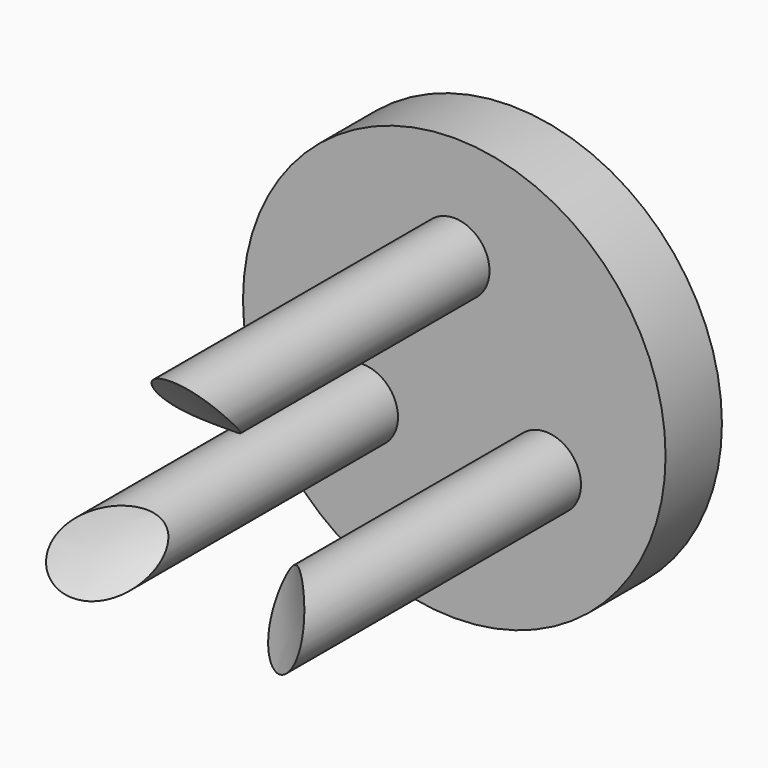
from build123d import *

# Parameters (mm, degrees)
F0_R     = 15
F1_DEPTH = 5
F2_R     = 2.5
F3_DEPTH = 25.4


with BuildPart() as f1:
    # F0 (on Front) → F1 (new body)
    with BuildSketch(Plane.XZ):
        Circle(F0_R)
    extrude(amount=F1_DEPTH)

    # F2 (on face) → F3 (join)
    with BuildSketch(Plane.XZ.offset(5)):
        with Locations((-6.495191, -3.75)):
            Circle(F2_R)
        with Locations((0, 7.5)):
            Circle(F2_R)
        with Locations((6.495191, -3.75)):
            Circle(F2_R)
    extrude(amount=F3_DEPTH)

    # F4 (on Right) → F5 (revolve, cut)
    with BuildSketch(Plane.YZ):
        Polygon((-20.142939, 0), (-30.415036, 10.272097), (-30.415036, 0), align=None)
    revolve(axis=Axis((0, -21.627579, 0), (0, -1, 0)), mode=Mode.SUBTRACT)


solid = f1.part
